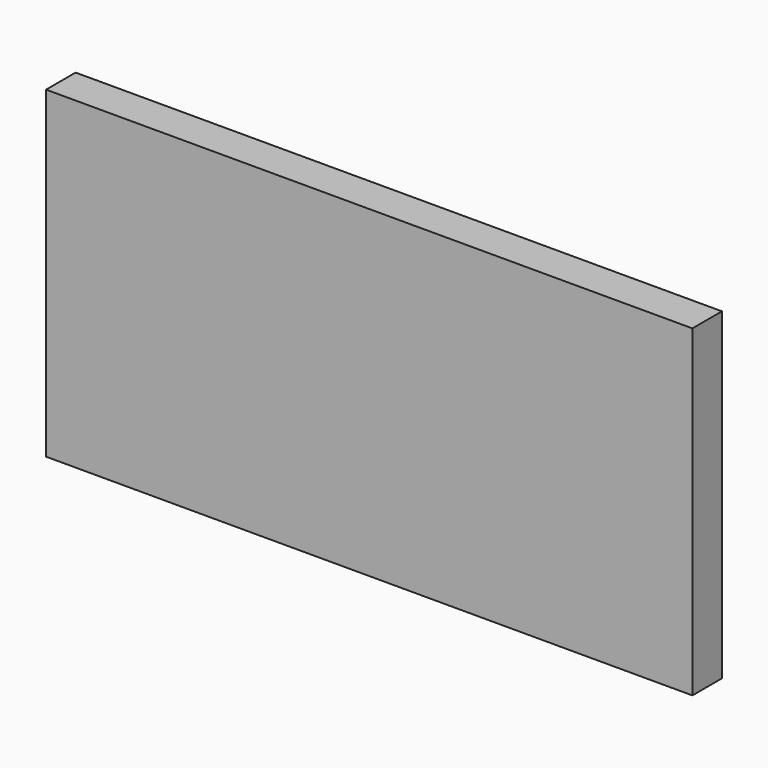
from build123d import *

# Parameters (mm, degrees)
SKETCH_W  = 140
SKETCH_H  = 70
PAD_DEPTH = 8


with BuildPart() as part:
    # Sketch → Pad (new body)
    with BuildSketch(Plane.XZ):
        Rectangle(SKETCH_W, SKETCH_H)
    extrude(amount=PAD_DEPTH)


solid = part.part
